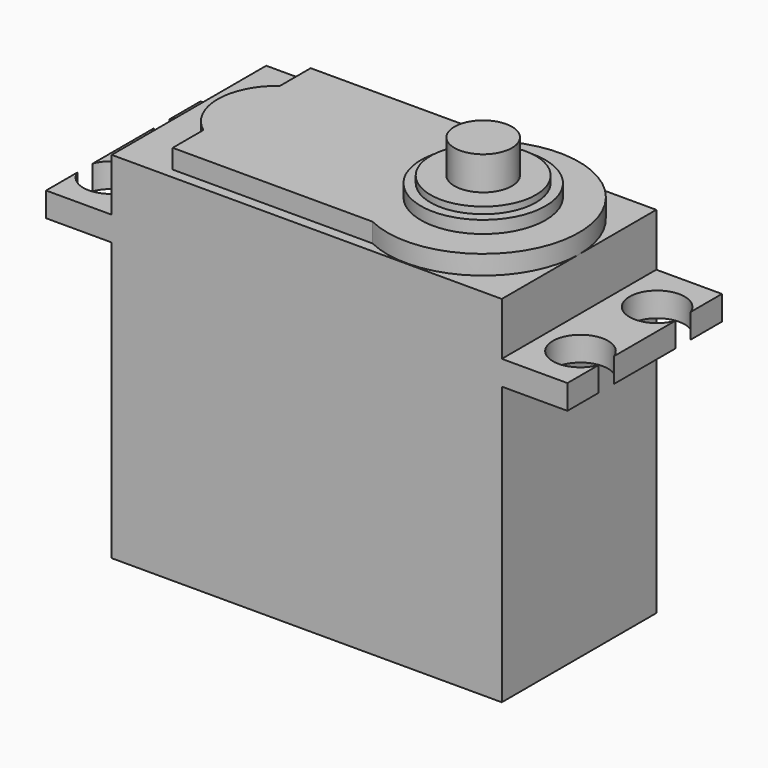
from build123d import *

# Parameters (mm, degrees)
SKETCH_W     = 40.7
SKETCH_H     = 20.15
PAD_DEPTH    = 29
PAD001_DEPTH = 2.55
SKETCH002_W  = 40.7
SKETCH002_H  = 20.15
PAD002_DEPTH = 5.5
PAD003_DEPTH = 2
SKETCH004_R  = 6.5
PAD004_DEPTH = 1.3
SKETCH005_R  = 5.5
PAD005_DEPTH = 0.7
SKETCH006_R  = 3
PAD006_DEPTH = 3.5


with BuildPart() as part:
    # Sketch → Pad (new body)
    with BuildSketch(Plane.XY):
        Rectangle(SKETCH_W, SKETCH_H)
    extrude(amount=-PAD_DEPTH)

    # Sketch001 (on Face5 of Pad) → Pad001 (join)
    with BuildSketch(Plane.XY):
        with BuildLine():
            Line((-27.2, 10.075), (27.2, 10.075))
            Line((27.2, 10.075), (27.2, 6))
            ThreePointArc((27.2, 6), (21.620764, 5), (27.2, 4))
            Line((27.2, 4), (27.2, -4))
            ThreePointArc((27.2, -4), (21.620764, -5), (27.2, -6))
            Line((27.2, -6), (27.2, -10.075))
            Line((27.2, -10.075), (-27.2, -10.075))
            Line((-27.2, -10.075), (-27.2, -6))
            ThreePointArc((-27.2, -6), (-21.620764, -5), (-27.2, -4))
            Line((-27.2, 4), (-27.2, -4))
            ThreePointArc((-27.2, 4), (-21.620764, 5), (-27.2, 6))
            Line((-27.2, 10.075), (-27.2, 6))
        make_face()
    extrude(amount=PAD001_DEPTH)

    # Sketch002 (on Face5 of Pad001) → Pad002 (join)
    with BuildSketch(Plane.XY.offset(2.55)):
        Rectangle(SKETCH002_W, SKETCH002_H)
    extrude(amount=PAD002_DEPTH)

    # Sketch003 (on Face21 of Pad002) → Pad003 (join)
    with BuildSketch(Plane.XY.offset(8.05)):
        with BuildLine():
            ThreePointArc((5.991101, -9), (20.35, 0), (5.991101, 9))
            Line((5.991101, 9), (-14.85, 9))
            Line((-14.85, 9), (-14.85, 5))
            ThreePointArc((-14.85, 5), (-16.69017, 2.795085), (-17.35, 0))
            ThreePointArc((-17.35, 0), (-16.69017, -2.795085), (-14.85, -5))
            Line((-14.85, -5), (-14.85, -9))
            Line((-14.85, -9), (5.991101, -9))
        make_face()
    extrude(amount=PAD003_DEPTH)

    # Sketch004 (on Face34 of Pad003) → Pad004 (join)
    with BuildSketch(Plane.XY.offset(10.05)):
        with Locations((10.35, 0)):
            Circle(SKETCH004_R)
    extrude(amount=PAD004_DEPTH)

    # Sketch005 (on Face36 of Pad004) → Pad005 (join)
    with BuildSketch(Plane.XY.offset(11.35)):
        with Locations((10.35, 0)):
            Circle(SKETCH005_R)
    extrude(amount=PAD005_DEPTH)

    # Sketch006 (on Face38 of Pad005) → Pad006 (join)
    with BuildSketch(Plane.XY.offset(12.05)):
        with Locations((10.35, 0)):
            Circle(SKETCH006_R)
    extrude(amount=PAD006_DEPTH)


solid = part.part
